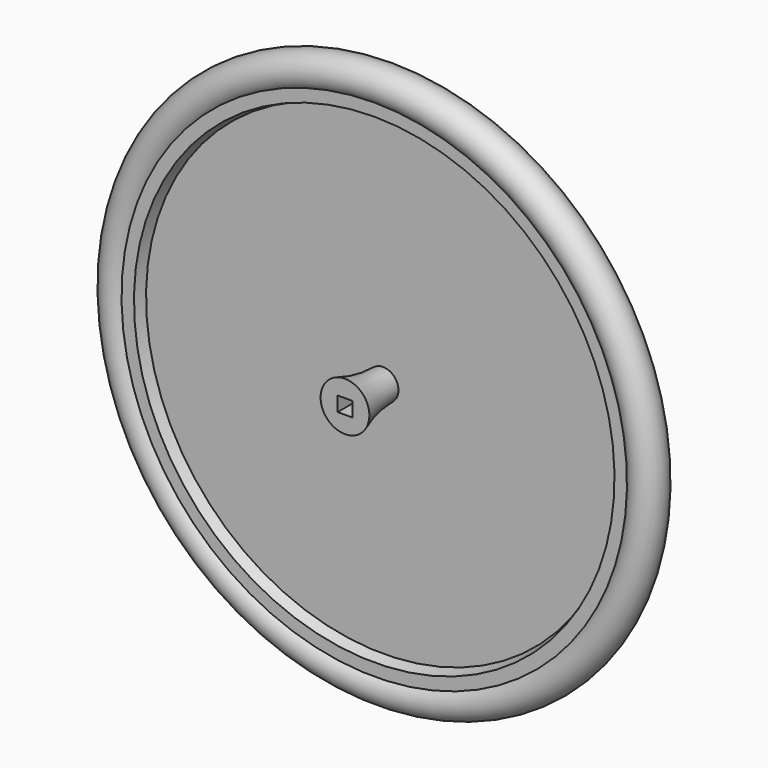
from build123d import *

# Parameters (mm, degrees)
F2_W     = 12
F2_H     = 12
F3_DEPTH = 80.001


with BuildPart() as f1:
    # F0 (on Right) → F1 (revolve)
    with BuildSketch(Plane.YZ):
        with BuildLine():
            Line((10, 197), (10, 207.202041))
            ThreePointArc((10, 207.202041), (0, 231), (-10, 207.202041))
            Line((-10, 207.202041), (-10, 197))
            Line((-10, 197), (-1, 194.3))
            Line((-1, 194.3), (-1, 12.658382))
            ThreePointArc((-1, 12.658382), (-20.826062, 14.597093), (-40, 20))
            Line((-40, 20), (-40, 0))
            Line((-40, 0), (40, 0))
            Line((40, 0), (40, 10))
            Line((40, 10), (40, 20))
            ThreePointArc((40, 20), (20.826062, 14.597093), (1, 12.658382))
            Line((1, 12.658382), (1, 194.3))
            Line((1, 194.3), (10, 197))
        make_face()
        with BuildLine():
            Line((10, 197), (10, 207.202041))
            ThreePointArc((10, 207.202041), (0, 231), (-10, 207.202041))
            Line((-10, 207.202041), (-10, 197))
            Line((-10, 197), (-1, 194.3))
            Line((-1, 194.3), (-1, 12.658382))
            ThreePointArc((-1, 12.658382), (-20.826062, 14.597093), (-40, 20))
            Line((-40, 20), (-40, 0))
            Line((-40, 0), (40, 0))
            Line((40, 0), (40, 10))
            Line((40, 10), (40, 20))
            ThreePointArc((40, 20), (20.826062, 14.597093), (1, 12.658382))
            Line((1, 12.658382), (1, 194.3))
            Line((1, 194.3), (10, 197))
        make_face()
    revolve(axis=Axis((0, 1.765828, 0), (0, 1, 0)))

    # F2 (on face) → F3 (cut, through all)
    with BuildSketch(Plane.XZ.offset(40)):
        Rectangle(F2_W, F2_H)
    extrude(amount=-F3_DEPTH, mode=Mode.SUBTRACT)


solid = f1.part
